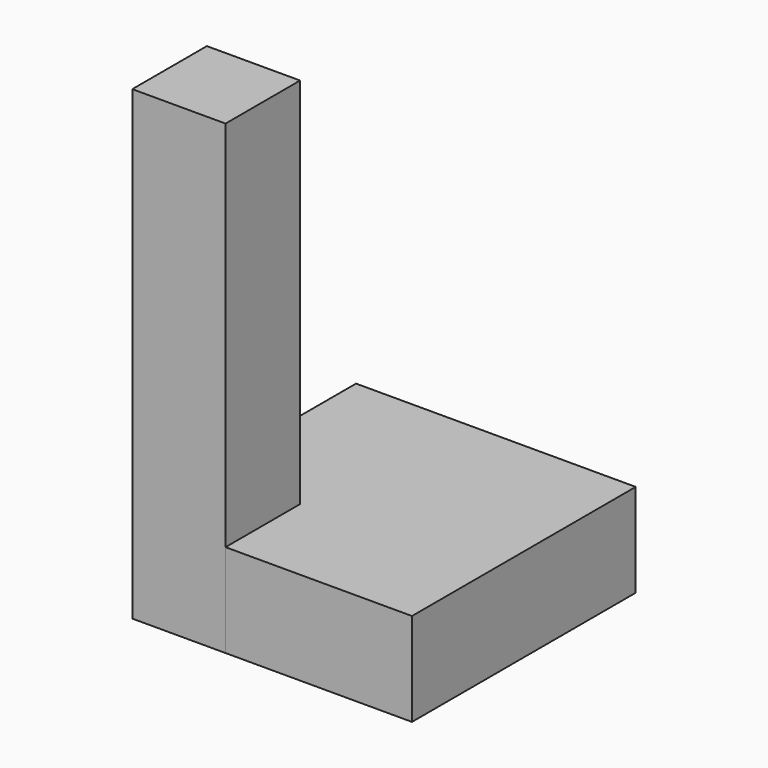
from build123d import *

# Parameters (mm, degrees)
BOX_W        = 30
BOX_H        = 30
BOX_DEPTH    = 10
BOX001_W     = 10
BOX001_H     = 10
BOX001_DEPTH = 50


with BuildPart() as base:
    # Box → Box (new body)
    with BuildSketch(Plane.XY):
        with Locations((15, 15)):
            Rectangle(BOX_W, BOX_H)
    extrude(amount=BOX_DEPTH)


with BuildPart() as obj1:
    # Box001 → Box001 (new body)
    with BuildSketch(Plane.XY):
        with Locations((5, 5)):
            Rectangle(BOX001_W, BOX001_H)
    extrude(amount=BOX001_DEPTH)


solid = Compound([base.part, obj1.part])
